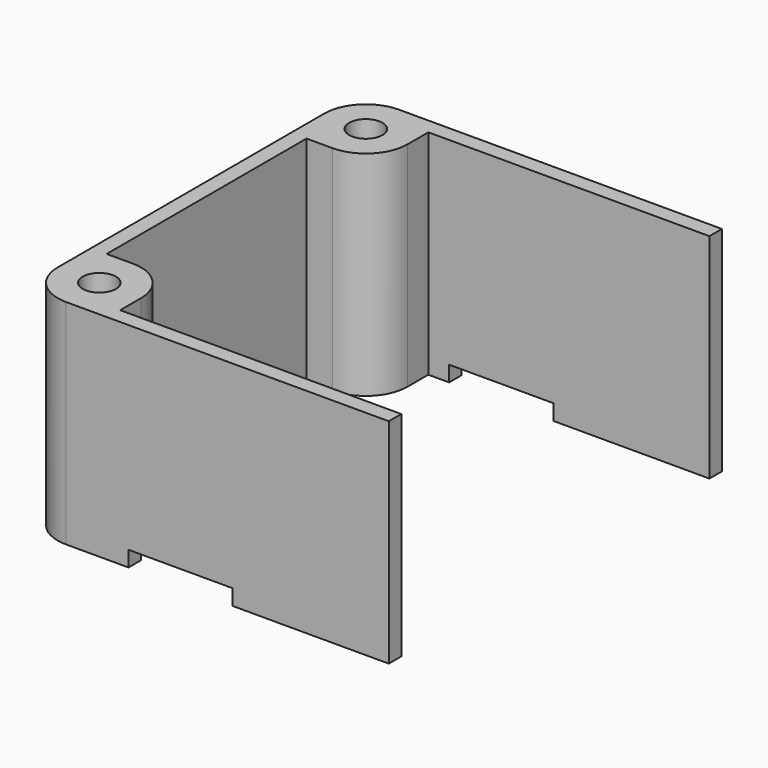
from build123d import *

# Parameters (mm, degrees)
SKETCH_R     = 1.6
PAD_DEPTH    = 20.5
SKETCH001_W  = 10
SKETCH001_H  = 100
POCKET_DEPTH = 1.5
FILLET_R     = 4


with BuildPart() as part:
    # Sketch → Pad (new body)
    with BuildSketch(Plane.XY):
        Polygon((0, 12), (0, 20), (35, 20), (35, 18.5), (8, 18.5), (8, 12), (1.5, 12), (1.5, -12), (8, -12), (8, -18.5), (35, -18.5), (35, -20), (0, -20), (0, -12), align=None)
        with Locations((4, 16)):
            Circle(SKETCH_R, mode=Mode.SUBTRACT)
        with Locations((4, -16)):
            Circle(SKETCH_R, mode=Mode.SUBTRACT)
    extrude(amount=PAD_DEPTH)

    # Sketch001 → Pocket (cut)
    with BuildSketch(Plane.XY):
        with Locations((15, 0)):
            Rectangle(SKETCH001_W, SKETCH001_H)
    extrude(amount=POCKET_DEPTH, mode=Mode.SUBTRACT)

    # Fillet
    fillet_edges = [part.edges().sort_by_distance(p)[0] for p in [
        (0, -20, 10.25),
        (8, -12, 10.25),
        (8, 12, 10.25),
        (0, 20, 10.25),
    ]]
    fillet(fillet_edges, radius=FILLET_R)


solid = part.part
